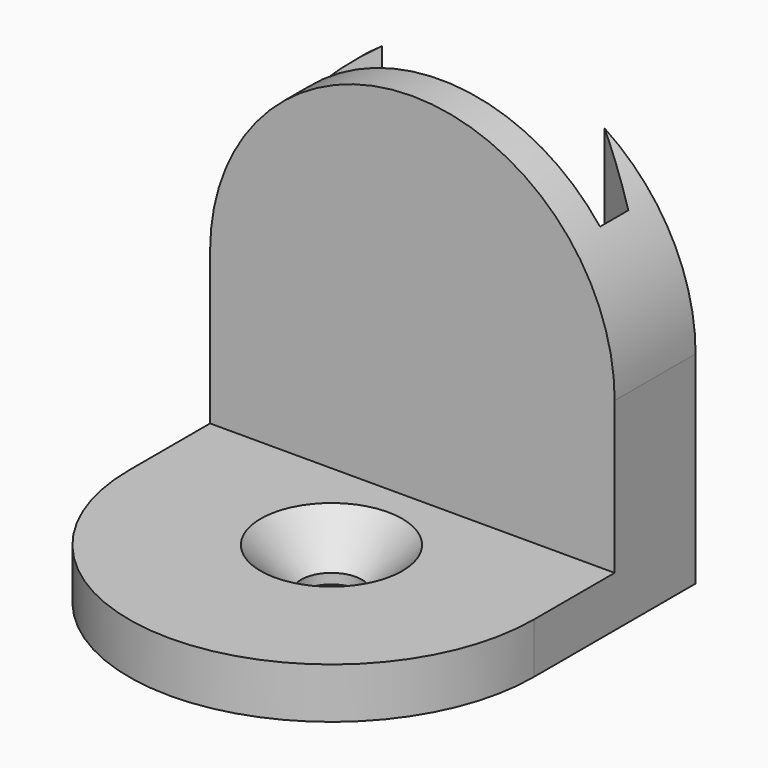
from build123d import *

# Parameters (mm, degrees)
PAD_DEPTH    = 5
PAD001_DEPTH = 10
POCKET_DEPTH = 42
SKETCH003_R  = 3
HOLE_DEPTH   = 25
CHAMFER_SIZE = 4


with BuildPart() as part:
    # Sketch → Pad (new body)
    with BuildSketch(Plane.XY):
        with BuildLine():
            Line((-20, 0), (20, 0))
            Line((20, 0), (20, -20))
            ThreePointArc((-20, -20), (0, -40), (20, -20))
            Line((-20, 0), (-20, -20))
        make_face()
    extrude(amount=PAD_DEPTH)

    # Sketch001 (on Face1 of Pad) → Pad001 (join)
    with BuildSketch(Plane(origin=(0, 0, 0), x_dir=(-1, 0, 0), z_dir=(0, 1, 0))):
        with BuildLine():
            Line((-20, 20), (-20, 0))
            Line((-20, 0), (20, 0))
            Line((20, 0), (20, 20))
            ThreePointArc((20, 20), (0, 40), (-20, 20))
        make_face()
    extrude(amount=-PAD001_DEPTH)

    # Sketch002 (on Face4 of Pad001) → Pocket (cut)
    with BuildSketch(Plane(origin=(0, 0, 0), x_dir=(1, 0, 0), z_dir=(0, 0, -1))):
        Polygon((-15.75, 3), (-15.75, 6.5), (15.75, 6.5), (15.75, 3), (11, 0), (-11, 0), align=None)
    extrude(amount=-POCKET_DEPTH, mode=Mode.SUBTRACT)

    # Sketch003 → Hole (cut)
    with BuildSketch(Plane.XY.offset(5)):
        with Locations((0, -20)):
            Circle(SKETCH003_R)
    extrude(amount=-HOLE_DEPTH, mode=Mode.SUBTRACT)

    # Chamfer
    chamfer_edges = [part.edges().sort_by_distance(p)[0] for p in [
        (-3, -20, 5),
    ]]
    chamfer(chamfer_edges, length=CHAMFER_SIZE)


solid = part.part
